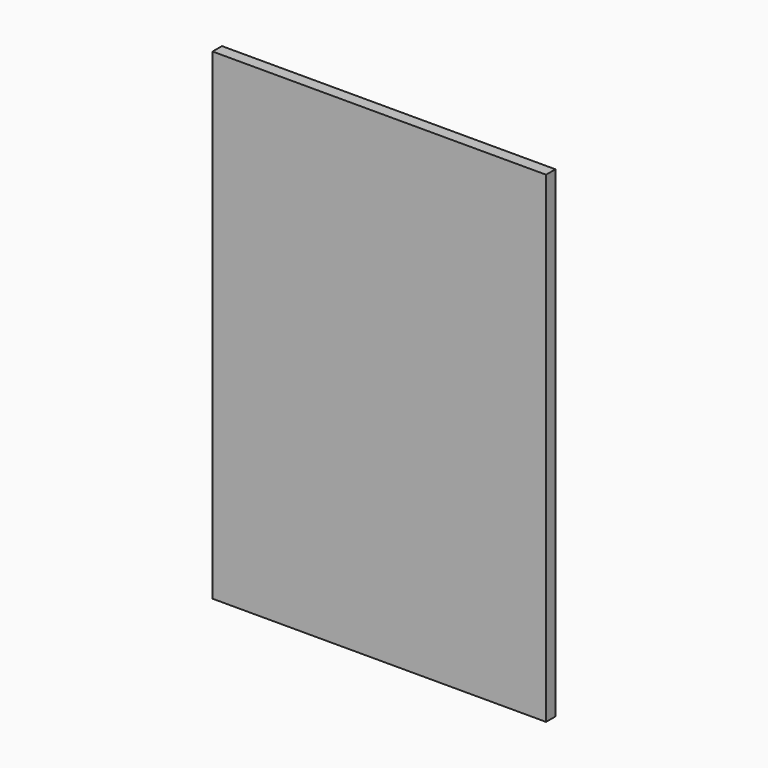
from build123d import *

# Parameters (mm, degrees)
SKETCH004_W  = 540
SKETCH004_H  = 780
PAD004_DEPTH = 19


with BuildPart() as part:
    # Sketch004 → Pad004 (new body)
    with BuildSketch(Plane.XZ):
        Rectangle(SKETCH004_W, SKETCH004_H)
    extrude(amount=PAD004_DEPTH)


solid = part.part
